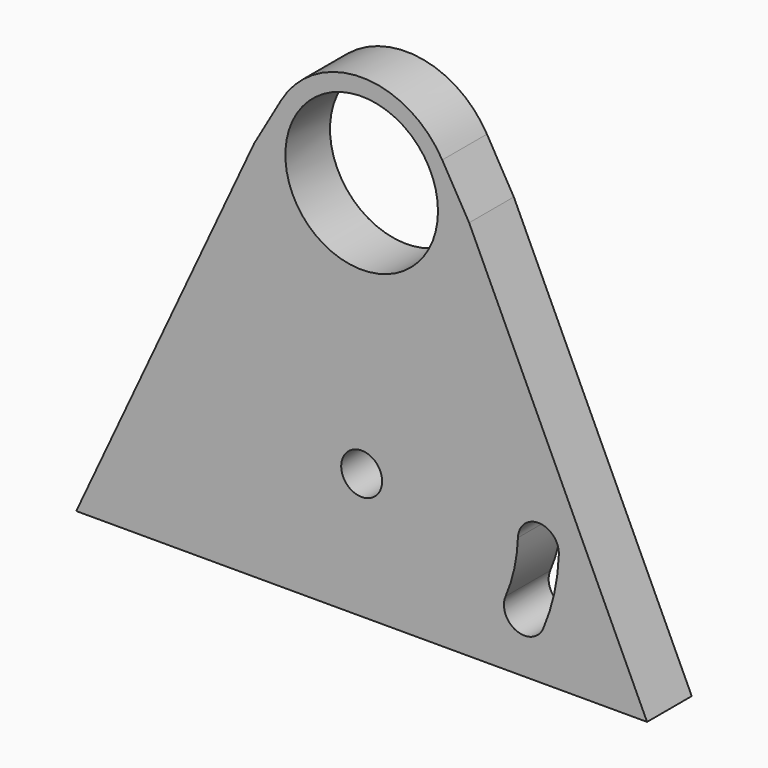
from build123d import *

# Parameters (mm, degrees)
SKETCH006_R                = 1.1
EXTRUDE007_DEPTH           = 3
EXTRUDE007_PLACEMENT_ANGLE = 180
FUSION006_PLACEMENT_ANGLE  = 2
CYLINDER007_R              = 4.1
CYLINDER007_DEPTH          = 3
EXTRUDE005_DEPTH           = 3


with BuildPart() as bearingcoupler_limitswitchmount:
    # Sketch006 → Extrude007 (new body)
    with BuildSketch(Plane.XZ):
        Circle(SKETCH006_R)
        with BuildLine():
            ThreePointArc((-8.4, 0), (-8.259343, -1.53077), (-7.842081, -3.010276))
            ThreePointArc((-9.89596, -3.798682), (-8.474818, -4.431418), (-7.842081, -3.010276))
            ThreePointArc((-10.6, 0), (-10.422504, -1.931687), (-9.89596, -3.798682))
            ThreePointArc((-8.4, 0), (-9.5, 1.1), (-10.6, 0))
        make_face()
    extrude(amount=-EXTRUDE007_DEPTH)


with BuildPart() as bearingcoupler_limitswitchmount_1:
    # Extrude007 placement: moved
    add(bearingcoupler_limitswitchmount.part.rotate(Axis((0, 0, 0), (0, 0, 1)), EXTRUDE007_PLACEMENT_ANGLE))


with BuildPart() as bearingcoupler_limitswitchmount_2:
    # Fusion006 placement: moved
    add(bearingcoupler_limitswitchmount_1.part.moved(Location((0, 0, -13.75))).rotate(Axis((0, 0, -13.75), (0, 1, 0)), FUSION006_PLACEMENT_ANGLE))


with BuildPart() as bearingcoupler_bearinghole:
    # Cylinder007 → Cylinder007 (new body)
    with BuildSketch(Plane.XZ):
        Circle(CYLINDER007_R)
    extrude(amount=CYLINDER007_DEPTH)


with BuildPart() as cut013:
    # Sketch004 → Extrude005 (new body)
    with BuildSketch(Plane(origin=(0, 0, 0), x_dir=(1, 0, 0), z_dir=(0, 1, 0))):
        with BuildLine():
            ThreePointArc((-4.330127, -2.5), (0, -5), (4.330127, -2.5))
            Line((4.330127, -2.5), (5.773503, 0))
            Line((5.773503, 0), (15.33281, 20.5))
            Line((-15.33281, 20.5), (15.33281, 20.5))
            Line((-5.773503, 0), (-15.33281, 20.5))
            Line((-4.330127, -2.5), (-5.773503, 0))
        make_face()
    extrude(amount=-EXTRUDE005_DEPTH)

    # Cut006: cut bearingCoupler_bearingHole
    add(bearingcoupler_bearinghole.part, mode=Mode.SUBTRACT)

    # Cut013: cut bearingCoupler_limitSwitchMount
    add(bearingcoupler_limitswitchmount_2.part, mode=Mode.SUBTRACT)


with BuildPart() as cut013_1:
    # Cut013 placement: moved
    add(cut013.part.moved(Location((0, 31.5, 0))))


solid = cut013_1.part
